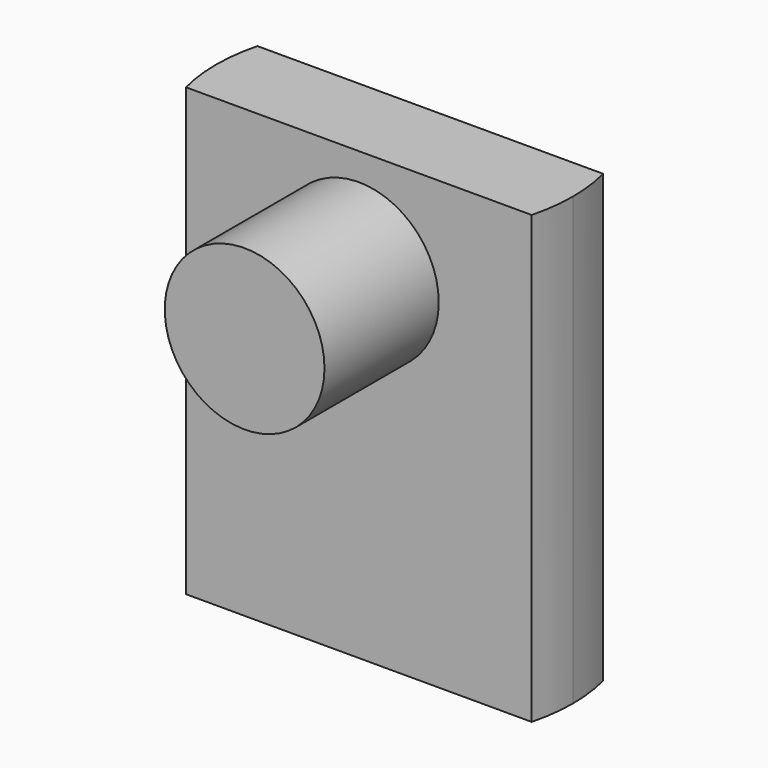
from build123d import *

# Parameters (mm, degrees)
F1_DEPTH = 25
F2_R     = 4.473976
F3_DEPTH = 8


with BuildPart() as f1:
    # F0 (on Top) → F1 (new body)
    with BuildSketch(Plane.XY):
        with BuildLine():
            ThreePointArc((9.682585, -2.499508), (9.920329, -1.259791), (10, 0))
            ThreePointArc((10, 0), (9.920329, 1.259791), (9.682585, 2.499508))
            Line((9.682585, 2.499508), (-9.682585, 2.499508))
            ThreePointArc((-9.682585, 2.499508), (-10, 0), (-9.682585, -2.499508))
            Line((-9.682585, -2.499508), (9.682585, -2.499508))
        make_face()
    extrude(amount=F1_DEPTH)

    # F2 (on face) → F3 (join)
    with BuildSketch(Plane.XZ.offset(2.499508)):
        with Locations((0, 18.997351)):
            Circle(F2_R)
    extrude(amount=F3_DEPTH)


solid = f1.part
